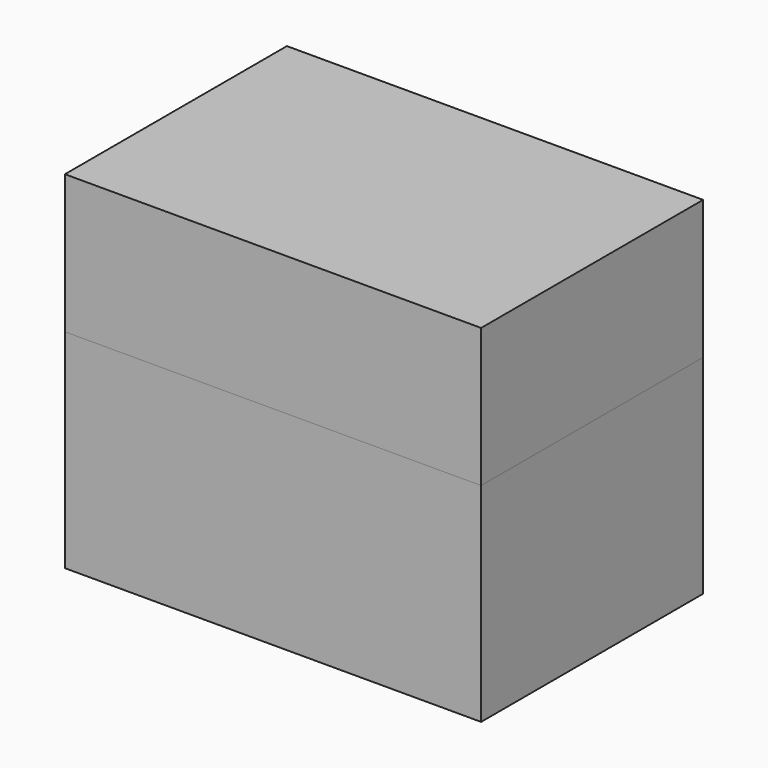
from build123d import *

# Parameters (mm, degrees)
F0_W      = 76.2
F0_H      = 25.4
F1_DEPTH  = 12.7
F1_FACE_W = 76.2
F1_FACE_H = 50.8
F2_DEPTH  = 38.1


with BuildPart() as f1:
    # F0 (on Top) → F1 (new body, symmetric)
    with BuildSketch(Plane.XY):
        with Locations((0, 12.7)):
            Rectangle(F0_W, F0_H)
        with Locations((0, -12.7)):
            Rectangle(F0_W, F0_H)
    extrude(amount=F1_DEPTH, both=True)


with BuildPart() as f2:
    # F1_face (on face) → F2 (new body)
    with BuildSketch(Plane(origin=(0, 0, -12.7), x_dir=(1, 0, 0), z_dir=(0, 0, -1))):
        Rectangle(F1_FACE_W, F1_FACE_H)
    extrude(amount=F2_DEPTH)


solid = Compound([f1.part, f2.part])
